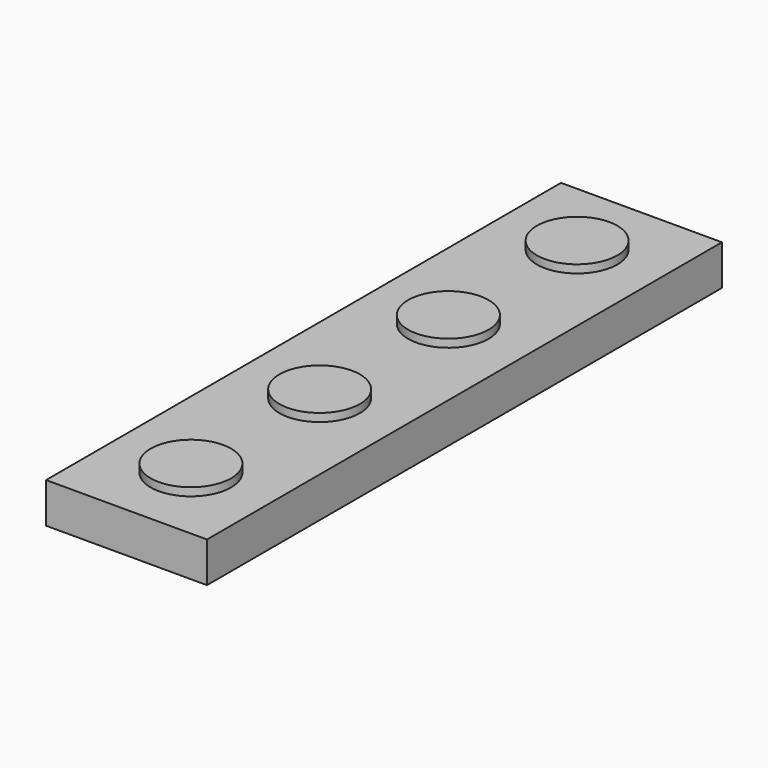
from build123d import *

# Parameters (mm, degrees)
F0_R     = 6.35
F1_DEPTH = 6.35
F2_DEPTH = 7.62


with BuildPart() as f1:
    # F0 (on Top) → F1 (new body)
    with BuildSketch(Plane.XY):
        Polygon((34.710955, 45.041551), (9.310955, 45.041551), (9.310955, 32.341551), (9.310955, 6.941551), (9.310955, -18.458449), (9.310955, -43.858449), (9.310955, -56.558449), (34.710955, -56.558449), align=None)
        with Locations((22.010955, -43.858449)):
            Circle(F0_R, mode=Mode.SUBTRACT)
        with Locations((22.010955, -18.458449)):
            Circle(F0_R, mode=Mode.SUBTRACT)
        with Locations((22.010955, 6.941551)):
            Circle(F0_R, mode=Mode.SUBTRACT)
        with Locations((22.010955, 32.341551)):
            Circle(F0_R, mode=Mode.SUBTRACT)
    extrude(amount=F1_DEPTH)

    # F0 (on Top) → F2 (join)
    with BuildSketch(Plane.XY):
        with Locations((22.010955, -18.458449)):
            Circle(F0_R)
        with Locations((22.010955, -43.858449)):
            Circle(F0_R)
        with Locations((22.010955, 6.941551)):
            Circle(F0_R)
        with Locations((22.010955, 32.341551)):
            Circle(F0_R)
    extrude(amount=F2_DEPTH)


solid = f1.part
